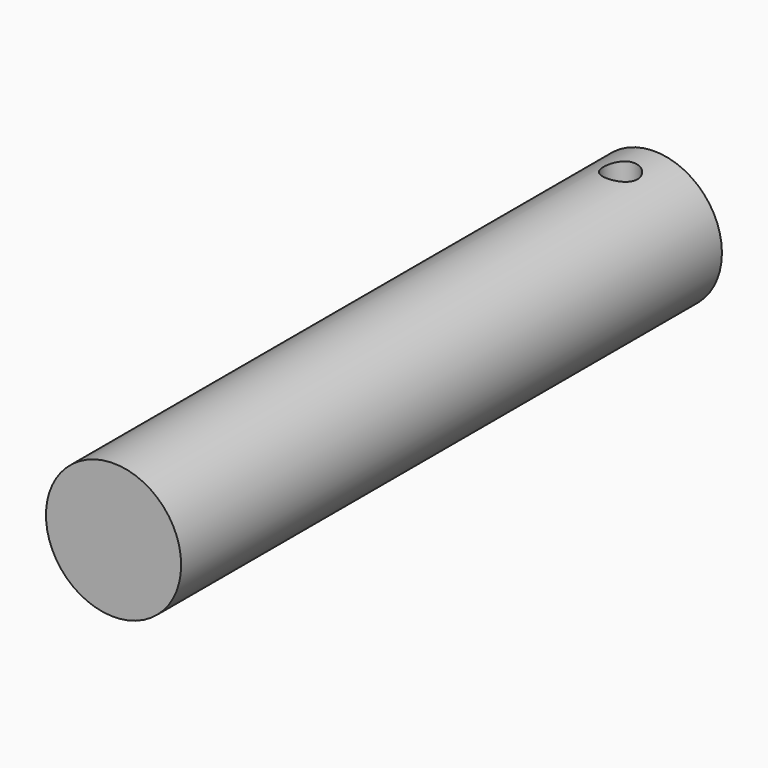
from build123d import *

# Parameters (mm, degrees)
F0_R     = 12.7
F1_DEPTH = 127
F3_R     = 3.175
F4_DEPTH = 25.401


with BuildPart() as f1:
    # F0 (on Front) → F1 (new body)
    with BuildSketch(Plane.XZ):
        Circle(F0_R)
    extrude(amount=F1_DEPTH)

    # F3 (on offset) → F4 (cut, through all)
    with BuildSketch(Plane.XY.offset(12.7)):
        with Locations((0, -7.9375)):
            Circle(F3_R)
    extrude(amount=-F4_DEPTH, mode=Mode.SUBTRACT)


solid = f1.part
